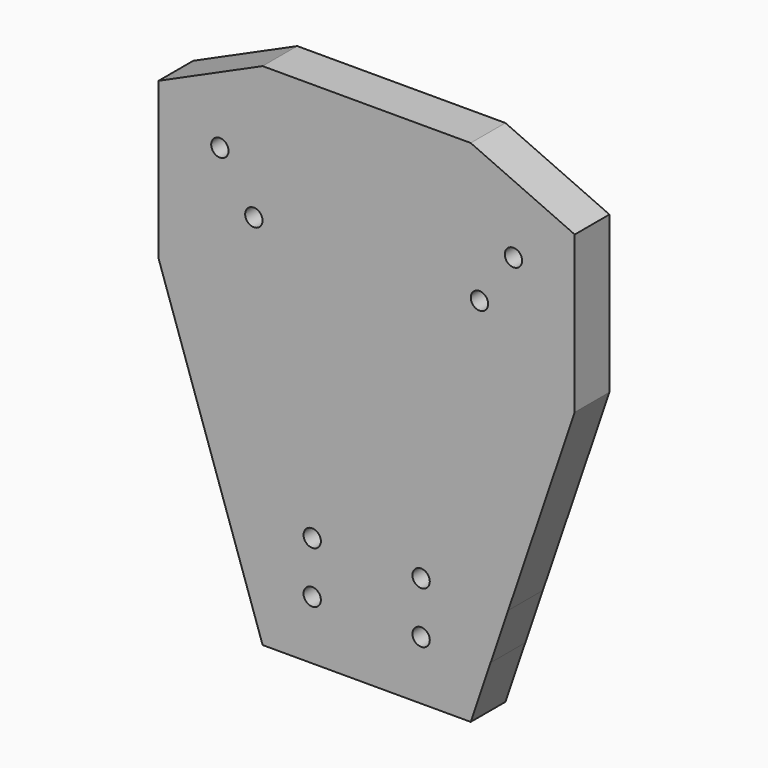
from build123d import *

# Parameters (mm, degrees)
F0_R     = 2.5
F1_DEPTH = 12.5


with BuildPart() as f1:
    # F0 (on Front) → F1 (new body)
    with BuildSketch(Plane.XZ):
        Polygon((30, 73.480435), (-30, 73.480435), (-60, 60), (-60, 14.888939), (-30, -73.480435), (30, -73.480435), (35.737889, -56.578646), (40.796766, -41.676988), (60, 14.888939), (60, 60), align=None)
        with Locations((-15.7, -56.578646)):
            Circle(F0_R, mode=Mode.SUBTRACT)
        with Locations((-15.7, -41.676988)):
            Circle(F0_R, mode=Mode.SUBTRACT)
        with Locations((15.7, -56.578646)):
            Circle(F0_R, mode=Mode.SUBTRACT)
        with Locations((15.7, -41.676988)):
            Circle(F0_R, mode=Mode.SUBTRACT)
        with Locations((-32.532971, 34.246657)):
            Circle(F0_R, mode=Mode.SUBTRACT)
        with Locations((-42.327315, 48.736922)):
            Circle(F0_R, mode=Mode.SUBTRACT)
        with Locations((32.53, 34.246657)):
            Circle(F0_R, mode=Mode.SUBTRACT)
        with Locations((42.33, 48.406292)):
            Circle(F0_R, mode=Mode.SUBTRACT)
    extrude(amount=F1_DEPTH)


solid = f1.part
